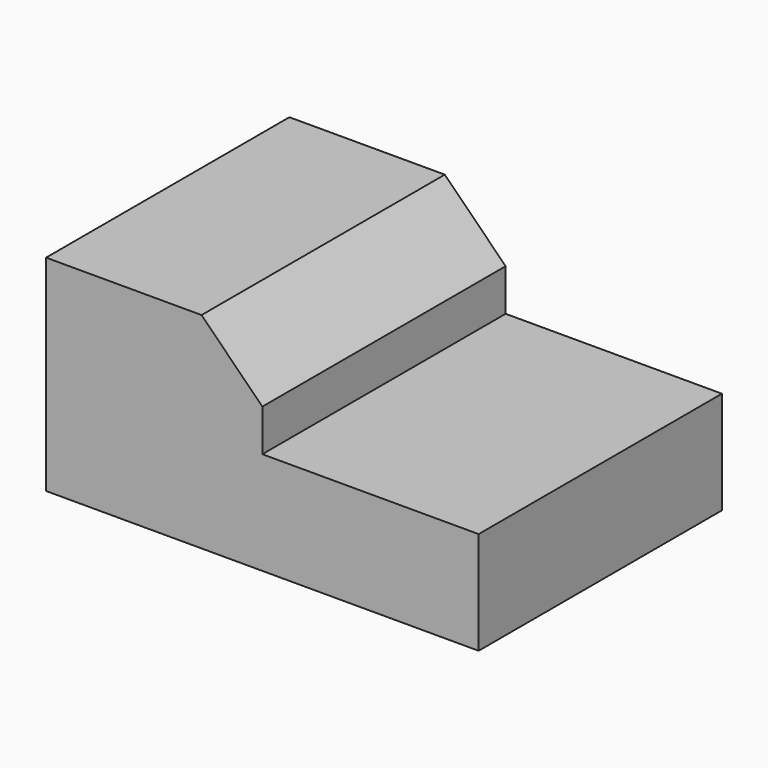
from build123d import *

# Parameters (mm, degrees)
F1_DEPTH = 12.5
F2_SIZE  = 5


with BuildPart() as f1:
    # F0 (on Front) → F1 (new body, symmetric)
    with BuildSketch(Plane.XZ):
        Polygon((-46.450254, 8.888737), (-10.890249, 8.888737), (-10.890249, 17.334236), (-28.670251, 17.334236), (-28.670251, 25.779734), (-46.450254, 25.779734), align=None)
    extrude(amount=F1_DEPTH, both=True)

    # F2
    f2_edges = [f1.edges().sort_by_distance(p)[0] for p in [
        (-28.670251, 0, 25.779734),
    ]]
    chamfer(f2_edges, length=F2_SIZE)


solid = f1.part
